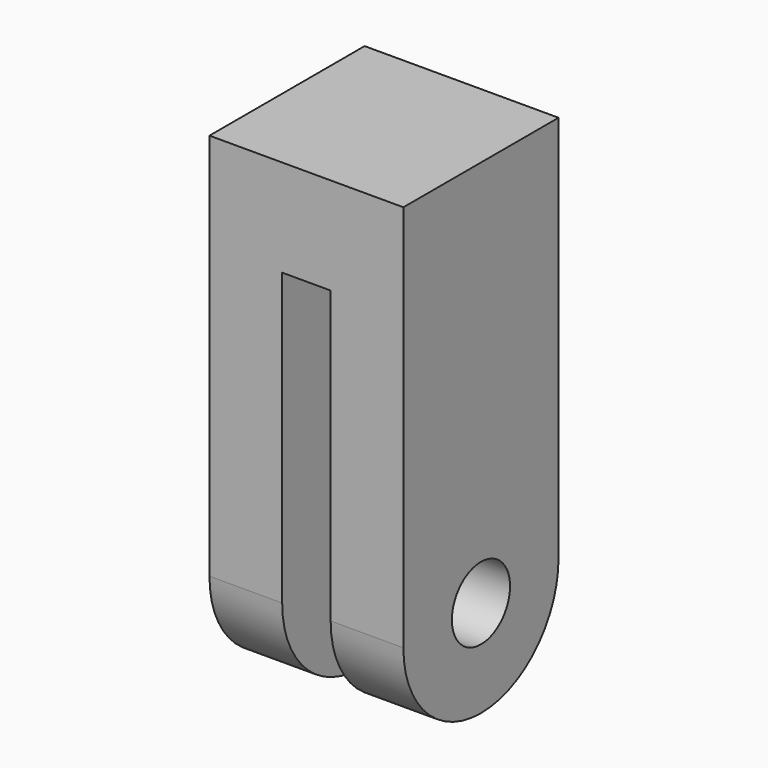
from build123d import *

# Parameters (mm, degrees)
SKETCH038_W      = 10
SKETCH038_H      = 85.035517
EXTRUDE034_DEPTH = 50
SKETCH037_R      = 7.5
EXTRUDE033_DEPTH = 20


with BuildPart() as extrude036:
    # Sketch038 (on Face4 of Extrude033) → Extrude034 (new body)
    with BuildSketch(Plane.XZ.offset(20)):
        with Locations((0, 17.482242)):
            Rectangle(SKETCH038_W, SKETCH038_H)
    extrude(amount=-EXTRUDE034_DEPTH)


with BuildPart() as cut017:
    # Sketch037 → Extrude033 (new body, symmetric)
    with BuildSketch(Plane.YZ):
        with BuildLine():
            ThreePointArc((-20, 9e-06), (1.3e-05, -20), (20, 3.6e-05))
            Line((20, 80), (20, 3.6e-05))
            Line((-20, 80), (20, 80))
            Line((-20, 9e-06), (-20, 80))
        make_face()
        Circle(SKETCH037_R, mode=Mode.SUBTRACT)
    extrude(amount=EXTRUDE033_DEPTH, both=True)

    # Cut017: cut Extrude036
    add(extrude036.part, mode=Mode.SUBTRACT)


solid = cut017.part
